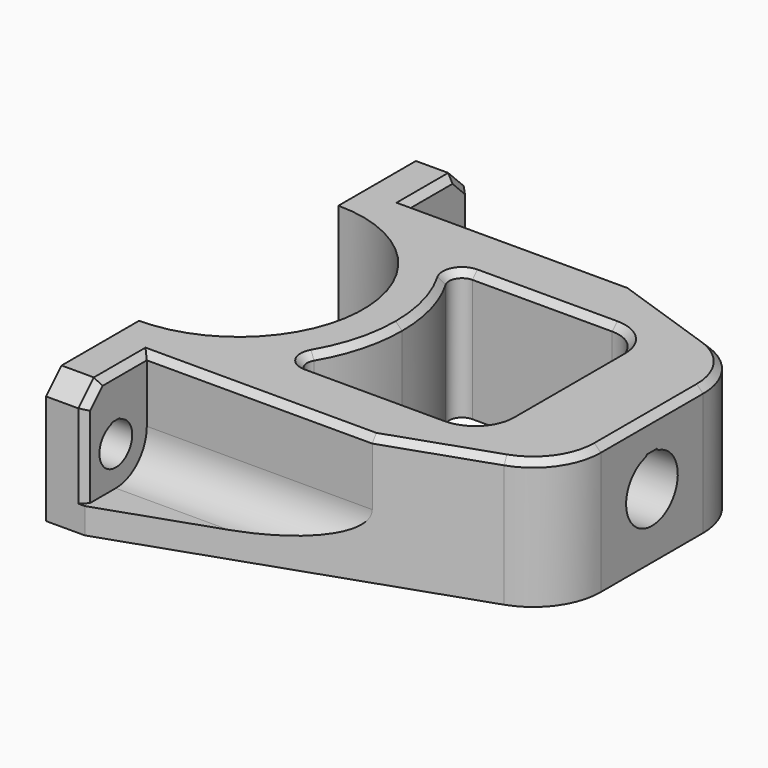
from build123d import *

# Parameters (mm, degrees)
PAD004_DEPTH    = 10
PAD005_DEPTH    = 20
PAD006_DEPTH    = 20
FILLET_R        = 5
SKETCH017_R     = 5
POCKET008_DEPTH = 13.75
POCKET009_DEPTH = 13.75
SKETCH019_R     = 3.175
POCKET010_DEPTH = 264.6116677124
POCKET011_DEPTH = 264.6116677124
POCKET012_DEPTH = 58
CHAMFER003_SIZE = 3
FILLET001_R     = 2
CHAMFER004_SIZE = 1


with BuildPart() as part:
    # Sketch014 → Pad004 (new body, symmetric)
    with BuildSketch(Plane.XY):
        with BuildLine():
            ThreePointArc((19.3, 0), (13.6471608769, 13.6471608769), (0, 19.3))
            Line((0, 19.3), (0, 25.3))
            ThreePointArc((25.3, 0), (17.889801564, 17.889801564), (0, 25.3))
            Line((19.3, 0), (25.3, 0))
        make_face()
    pad004 = extrude(amount=PAD004_DEPTH, both=True)

    # Mirrored007: Pad004 across Sketch014 H_Axis
    add(pad004.mirror(Plane.ZX))

    # Sketch015 (on Face4 of Mirrored007) → Pad005 (join)
    with BuildSketch(Plane.XY.offset(10)):
        with BuildLine():
            Line((0, 25.3), (0, 37.3))
            Line((0, 37.3), (6, 37.3))
            Line((6, 37.3), (6, 24.5782424107))
            ThreePointArc((6, 24.5782424107), (3.021627625, 25.1189125261), (0, 25.3))
        make_face()
    pad005 = extrude(amount=-PAD005_DEPTH)

    # Mirrored008: Pad005 across Sketch015 H_Axis
    add(pad005.mirror(Plane(origin=(0, 0, 10), x_dir=(0, 0, 1), z_dir=(0, 1, 0))))

    # Sketch016 (on Face8 of Mirrored008) → Pad006 (join)
    with BuildSketch(Plane.XY.offset(10)):
        with BuildLine():
            Line((50.25, 0), (64, 0))
            Line((64, 0), (64, 9.9))
            ThreePointArc((64, 9.9), (62.0528467529, 15.9796404149), (56.935983439, 19.7968570932))
            Line((6, 37.3), (56.935983439, 19.7968570932))
            Line((6, 37.3), (6, 24.5782424107))
            ThreePointArc((19.7996843409, 15.75), (13.6341627553, 21.3119592239), (6, 24.5782424107))
            Line((50.25, 15.75), (19.7996843409, 15.75))
            Line((50.25, 0), (50.25, 15.75))
        make_face()
    pad006 = extrude(amount=-PAD006_DEPTH)

    # Mirrored009: Pad006 across Sketch016 H_Axis
    add(pad006.mirror(Plane(origin=(0, 0, 10), x_dir=(0, 0, 1), z_dir=(0, 1, 0))))

    # Fillet
    fillet_edges = [part.edges().sort_by_distance(p)[0] for p in [
        (50.25, 15.75, 0),
        (50.25, -15.75, 0),
    ]]
    fillet(fillet_edges, radius=FILLET_R)

    # Sketch017 (on Face13 of Fillet) → Pocket008 (cut)
    with BuildSketch(Plane.YZ.offset(64)):
        Circle(SKETCH017_R)
    extrude(amount=-POCKET008_DEPTH, mode=Mode.SUBTRACT)

    # Sketch018 (on Face13 of Pocket008) → Pocket009 (cut)
    with BuildSketch(Plane.YZ.offset(64)):
        Polygon((-1.25, 4.8412291828), (-0.95, 5.1412291828), (0.95, 5.1412291828), (1.25, 4.8412291828), align=None)
    extrude(amount=-POCKET009_DEPTH, mode=Mode.SUBTRACT)

    # Sketch019 (on Face9 of Pocket009) → Pocket010 (cut, through all)
    with BuildSketch(Plane(origin=(0, 0, 0), x_dir=(0, -1, 0), z_dir=(-1, 0, 0))):
        with Locations((-31.3, 0)):
            Circle(SKETCH019_R)
    pocket010 = extrude(amount=-POCKET010_DEPTH, mode=Mode.SUBTRACT)

    # Mirrored010: Pocket010 across Sketch019 V_Axis
    add(pocket010.mirror(Plane(origin=(0, 0, 0), x_dir=(-1, 0, 0), z_dir=(0, -1, 0))), mode=Mode.SUBTRACT)

    # Sketch020 (on Face17 of Mirrored010) → Pocket011 (cut, through all)
    with BuildSketch(Plane(origin=(0, 0, 0), x_dir=(0, -1, 0), z_dir=(-1, 0, 0))):
        Polygon((-32.3, 3.0134075396), (-32.05, 3.2634075396), (-30.55, 3.2634075396), (-30.3, 3.0134075396), align=None)
    pocket011 = extrude(amount=-POCKET011_DEPTH, mode=Mode.SUBTRACT)

    # Mirrored011: Pocket011 across Sketch020 V_Axis
    add(pocket011.mirror(Plane(origin=(0, 0, 0), x_dir=(-1, 0, 0), z_dir=(0, -1, 0))), mode=Mode.SUBTRACT)

    # Sketch021 (on Face13 of Mirrored011) → Pocket012 (cut)
    with BuildSketch(Plane.YZ.offset(64)):
        with BuildLine():
            ThreePointArc((-31.3, -6), (-27.0573593129, -4.2426406871), (-25.3, 0))
            Line((-25.3, 10), (-25.3, 0))
            Line((-37.3, 10), (-25.3, 10))
            Line((-37.3, -6), (-37.3, 10))
            Line((-31.3, -6), (-37.3, -6))
        make_face()
    pocket012 = extrude(amount=-POCKET012_DEPTH, mode=Mode.SUBTRACT)

    # Mirrored012: Pocket012 across Sketch021 V_Axis
    add(pocket012.mirror(Plane(origin=(64, 0, 0), x_dir=(1, 0, 0), z_dir=(0, 1, 0))), mode=Mode.SUBTRACT)

    # Chamfer003
    chamfer003_edges = [part.edges().sort_by_distance(p)[0] for p in [
        (3, -37.3, 10),
        (3, 37.3, 10),
    ]]
    chamfer(chamfer003_edges, length=CHAMFER003_SIZE)

    # Fillet001
    fillet001_edges = [part.edges().sort_by_distance(p)[0] for p in [
        (19.799684, -15.75, 0),
        (19.799684, 15.75, 0),
    ]]
    fillet(fillet001_edges, radius=FILLET001_R)

    # Chamfer004
    chamfer004_edges = [part.edges().sort_by_distance(p)[0] for p in [
        (6, -37.3, 0.5),
        (6, -35.8, 8.5),
        (6, -29.8, 10),
        (23.46063, -25.3, 10),
        (48.928622, -22.548429, 10),
        (62.052847, -15.97964, 10),
        (64, 0, 10),
        (62.052847, 15.97964, 10),
        (48.928622, 22.548429, 10),
        (23.46063, 25.3, 10),
        (6, 29.8, 10),
        (6, 35.8, 8.5),
        (6, 37.3, 0.5),
        (21.850311, -14.74633, 10),
        (24.424003, -6.599853, 10),
        (24.424003, 6.599853, 10),
        (21.850311, 14.74633, 10),
        (34.417238, 15.75, 10),
        (48.785534, 14.285534, 10),
        (50.25, 0, 10),
        (48.785534, -14.285534, 10),
        (34.417238, -15.75, 10),
    ]]
    chamfer(chamfer004_edges, length=CHAMFER004_SIZE)


solid = part.part
